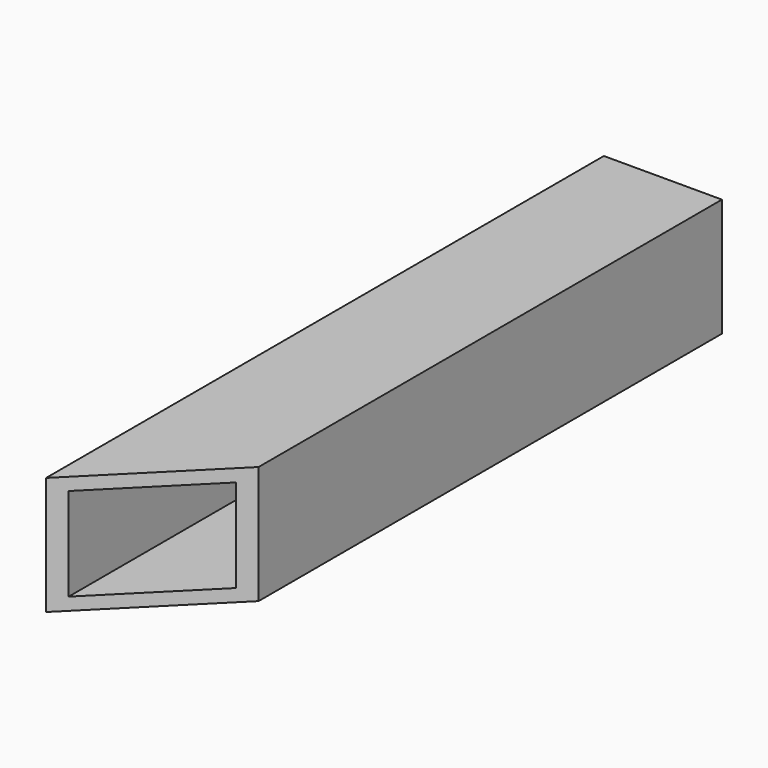
from build123d import *

# Parameters (mm, degrees)
F0_W     = 25.4
F0_H     = 25.4
F0_W_2   = 20
F0_H_2   = 20
F1_DEPTH = 150
F3_DEPTH = 200


with BuildPart() as f1:
    # F0 (on Front) → F1 (new body)
    with BuildSketch(Plane.XZ):
        Rectangle(F0_W, F0_H)
        Rectangle(F0_W_2, F0_H_2, mode=Mode.SUBTRACT)
    extrude(amount=F1_DEPTH)

    # F2 (on face) → F3 (cut)
    with BuildSketch(Plane.XY.offset(12.7)):
        Polygon((12.7, -124.6), (-12.7, -150), (12.7, -150), align=None)
    extrude(amount=-F3_DEPTH, mode=Mode.SUBTRACT)


solid = f1.part
